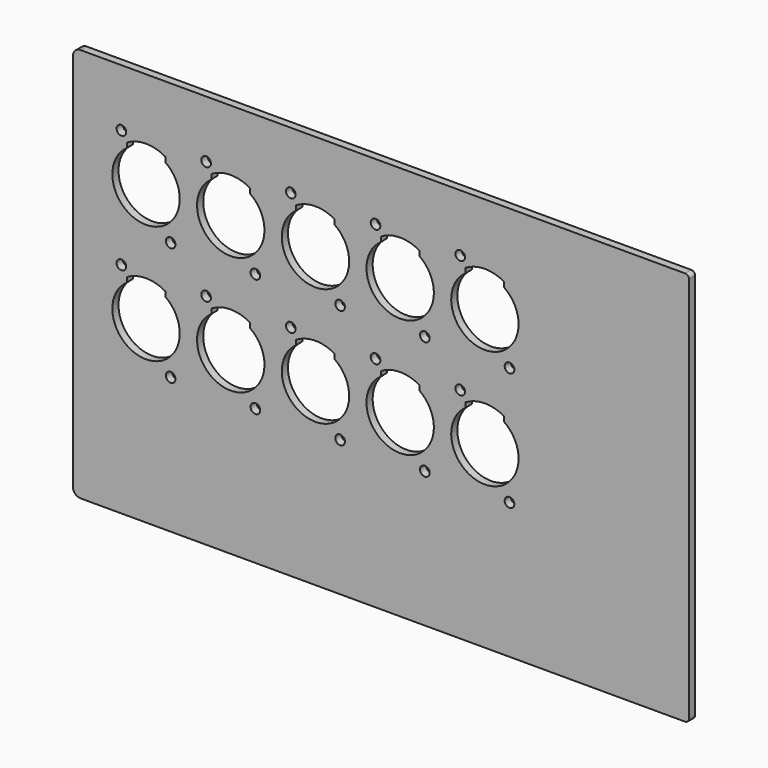
from build123d import *

# Parameters (mm, degrees)
F0_R     = 1.5875
F1_DEPTH = 2.54


with BuildPart() as f1:
    # F0 (on Front) → F1 (new body)
    with BuildSketch(Plane.XZ):
        with BuildLine():
            Line((93.98, 52.134603), (-105.41, 52.134603))
            ThreePointArc((-105.41, 52.134603), (-107.206051, 51.390655), (-107.95, 49.594603))
            Line((-107.95, 49.594603), (-107.95, -75.500397))
            ThreePointArc((-107.95, -75.500397), (-107.206051, -77.296448), (-105.41, -78.040397))
            Line((-105.41, -78.040397), (93.98, -78.040397))
            ThreePointArc((93.98, -78.040397), (94.878026, -77.668422), (95.25, -76.770397))
            Line((95.25, -76.770397), (95.25, 50.864603))
            ThreePointArc((95.25, 50.864603), (94.878026, 51.762629), (93.98, 52.134603))
        make_face()
        with Locations((-75.692, -33.2105)):
            Circle(F0_R, mode=Mode.SUBTRACT)
        with BuildLine():
            ThreePointArc((-77.47, -10.406757), (-83.82, -30.63875), (-90.17, -10.406757))
            Line((-90.17, -10.406757), (-90.17, -8.817245))
            ThreePointArc((-90.17, -8.817245), (-83.82, -7.076138), (-77.47, -8.817245))
            Line((-77.47, -8.817245), (-77.47, -10.406757))
        make_face(mode=Mode.SUBTRACT)
        with Locations((-47.752, -33.2105)):
            Circle(F0_R, mode=Mode.SUBTRACT)
        with Locations((-19.812, -33.2105)):
            Circle(F0_R, mode=Mode.SUBTRACT)
        with BuildLine():
            ThreePointArc((-49.53, -10.406757), (-55.88, -30.63875), (-62.23, -10.406757))
            Line((-62.23, -10.406757), (-62.23, -8.817245))
            ThreePointArc((-62.23, -8.817245), (-55.88, -7.076138), (-49.53, -8.817245))
            Line((-49.53, -8.817245), (-49.53, -10.406757))
        make_face(mode=Mode.SUBTRACT)
        with BuildLine():
            ThreePointArc((-21.59, -10.406757), (-27.94, -30.63875), (-34.29, -10.406757))
            Line((-34.29, -10.406757), (-34.29, -8.817245))
            ThreePointArc((-34.29, -8.817245), (-27.94, -7.076138), (-21.59, -8.817245))
            Line((-21.59, -8.817245), (-21.59, -10.406757))
        make_face(mode=Mode.SUBTRACT)
        with Locations((8.128, -33.2105)):
            Circle(F0_R, mode=Mode.SUBTRACT)
        with Locations((36.068, -33.2105)):
            Circle(F0_R, mode=Mode.SUBTRACT)
        with BuildLine():
            ThreePointArc((6.35, -10.406757), (0, -30.63875), (-6.35, -10.406757))
            Line((-6.35, -10.406757), (-6.35, -8.817245))
            ThreePointArc((-6.35, -8.817245), (0, -7.076138), (6.35, -8.817245))
            Line((6.35, -8.817245), (6.35, -10.406757))
        make_face(mode=Mode.SUBTRACT)
        with BuildLine():
            ThreePointArc((34.29, -10.406757), (27.94, -30.63875), (21.59, -10.406757))
            Line((21.59, -10.406757), (21.59, -8.817245))
            ThreePointArc((21.59, -8.817245), (27.94, -7.076138), (34.29, -8.817245))
            Line((34.29, -8.817245), (34.29, -10.406757))
        make_face(mode=Mode.SUBTRACT)
        with Locations((-91.948, -5.842)):
            Circle(F0_R, mode=Mode.SUBTRACT)
        with Locations((-64.008, -5.842)):
            Circle(F0_R, mode=Mode.SUBTRACT)
        with Locations((-75.692, 5.842)):
            Circle(F0_R, mode=Mode.SUBTRACT)
        with Locations((-36.068, -5.842)):
            Circle(F0_R, mode=Mode.SUBTRACT)
        with Locations((-8.128, -5.842)):
            Circle(F0_R, mode=Mode.SUBTRACT)
        with Locations((-47.752, 5.842)):
            Circle(F0_R, mode=Mode.SUBTRACT)
        with Locations((-19.812, 5.842)):
            Circle(F0_R, mode=Mode.SUBTRACT)
        with BuildLine():
            ThreePointArc((-77.47, 28.645743), (-83.82, 8.41375), (-90.17, 28.645743))
            Line((-90.17, 28.645743), (-90.17, 30.235255))
            ThreePointArc((-90.17, 30.235255), (-83.82, 31.976362), (-77.47, 30.235255))
            Line((-77.47, 30.235255), (-77.47, 28.645743))
        make_face(mode=Mode.SUBTRACT)
        with Locations((-91.948, 33.2105)):
            Circle(F0_R, mode=Mode.SUBTRACT)
        with Locations((-64.008, 33.2105)):
            Circle(F0_R, mode=Mode.SUBTRACT)
        with BuildLine():
            ThreePointArc((-49.53, 28.645743), (-55.88, 8.41375), (-62.23, 28.645743))
            Line((-62.23, 28.645743), (-62.23, 30.235255))
            ThreePointArc((-62.23, 30.235255), (-55.88, 31.976362), (-49.53, 30.235255))
            Line((-49.53, 30.235255), (-49.53, 28.645743))
        make_face(mode=Mode.SUBTRACT)
        with Locations((-36.068, 33.2105)):
            Circle(F0_R, mode=Mode.SUBTRACT)
        with BuildLine():
            ThreePointArc((-21.59, 28.645743), (-27.94, 8.41375), (-34.29, 28.645743))
            Line((-34.29, 28.645743), (-34.29, 30.235255))
            ThreePointArc((-34.29, 30.235255), (-27.94, 31.976362), (-21.59, 30.235255))
            Line((-21.59, 30.235255), (-21.59, 28.645743))
        make_face(mode=Mode.SUBTRACT)
        with Locations((-8.128, 33.2105)):
            Circle(F0_R, mode=Mode.SUBTRACT)
        with Locations((19.812, -5.842)):
            Circle(F0_R, mode=Mode.SUBTRACT)
        with Locations((8.128, 5.842)):
            Circle(F0_R, mode=Mode.SUBTRACT)
        with Locations((36.068, 5.842)):
            Circle(F0_R, mode=Mode.SUBTRACT)
        with BuildLine():
            ThreePointArc((6.35, 28.645743), (0, 8.41375), (-6.35, 28.645743))
            Line((-6.35, 28.645743), (-6.35, 30.235255))
            ThreePointArc((-6.35, 30.235255), (0, 31.976362), (6.35, 30.235255))
            Line((6.35, 30.235255), (6.35, 28.645743))
        make_face(mode=Mode.SUBTRACT)
        with BuildLine():
            ThreePointArc((34.29, 28.645743), (27.94, 8.41375), (21.59, 28.645743))
            Line((21.59, 28.645743), (21.59, 30.235255))
            ThreePointArc((21.59, 30.235255), (27.94, 31.976362), (34.29, 30.235255))
            Line((34.29, 30.235255), (34.29, 28.645743))
        make_face(mode=Mode.SUBTRACT)
        with Locations((19.812, 33.2105)):
            Circle(F0_R, mode=Mode.SUBTRACT)
    extrude(amount=F1_DEPTH)


solid = f1.part
